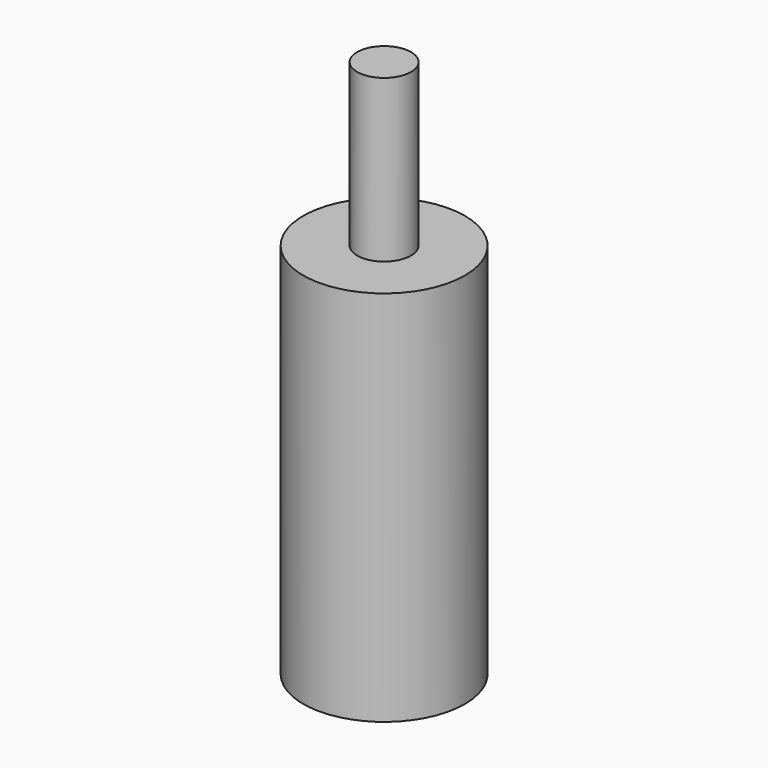
from build123d import *

# Parameters (mm, degrees)
F0_R     = 7.5
F1_DEPTH = 50
F2_R     = 7.5
F3_DEPTH = 30
F3_TAPER = 10
F4_R     = 7.5
F4_R_2   = 2.5
F5_DEPTH = 15


with BuildPart() as f1:
    # F0 (on Top) → F1 (new body)
    with BuildSketch(Plane.XY):
        with Locations((-41.049785912, 39.0788912773)):
            Circle(F0_R)
    extrude(amount=F1_DEPTH)

    # F2 (on face) → F3 (cut)
    with BuildSketch(Plane(origin=(0, 0, 0), x_dir=(1, 0, 0), z_dir=(0, 0, -1))):
        with Locations((-41.049785912, -39.0788912773)):
            Circle(F2_R)
    extrude(amount=-F3_DEPTH, taper=F3_TAPER, mode=Mode.SUBTRACT)

    # F4 (on face) → F5 (cut)
    with BuildSketch(Plane.XY.offset(50)):
        with Locations((-41.049785912, 39.0788912773)):
            Circle(F4_R)
        with Locations((-41.049785912, 39.0788912773)):
            Circle(F4_R_2, mode=Mode.SUBTRACT)
    extrude(amount=-F5_DEPTH, mode=Mode.SUBTRACT)


solid = f1.part
